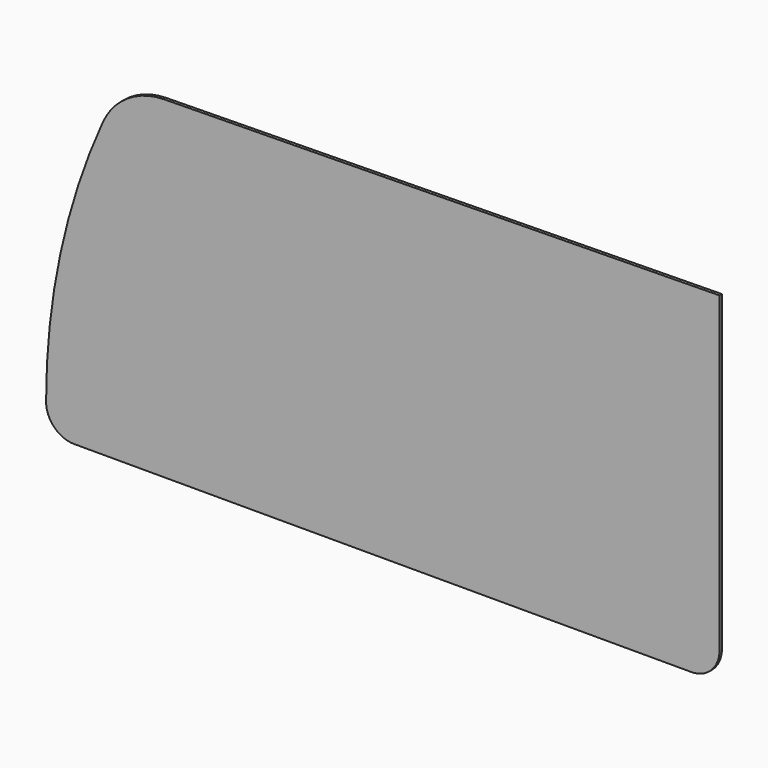
from build123d import *

# Parameters (mm, degrees)
F1_DEPTH = 4.7625


with BuildPart() as f1:
    # F0 (on Front) → F1 (new body)
    with BuildSketch(Plane.XZ):
        with BuildLine():
            ThreePointArc((-44.45, 0), (-13.019104, 13.019104), (0, 44.45))
            Line((0, 44.45), (0, 539.75))
            Line((0, 539.75), (-880.127613, 527.05))
            ThreePointArc((-880.127613, 527.05), (-937.867446, 509.3167), (-977.042596, 463.342077))
            ThreePointArc((-977.042596, 463.342077), (-1044.108833, 258.650236), (-1066.8, 44.45))
            ThreePointArc((-1066.8, 44.45), (-1053.780896, 13.019104), (-1022.35, 0))
            Line((-1022.35, 0), (-44.45, 0))
        make_face()
    extrude(amount=F1_DEPTH)


solid = f1.part
